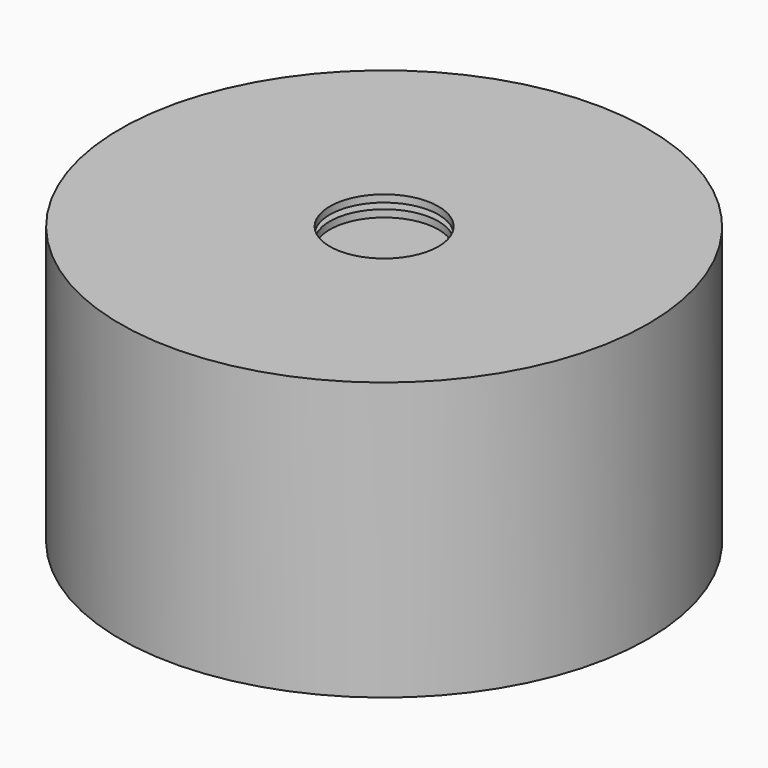
from build123d import *

# Parameters (mm, degrees)
F7_R      = 18
F8_DEPTH  = 8
F5_R      = 36.45
F5_R_2    = 35.45
F9_DEPTH  = 37.3
F11_R     = 36.45
F11_R_2   = 7.5
F12_DEPTH = 1


with BuildPart() as f8:
    # F7 (on offset) → F8 (new body)
    with BuildSketch(Plane.XY.offset(26)):
        Circle(F7_R)
    extrude(amount=F8_DEPTH)


with BuildPart() as f9:
    # F5 (on Top) → F9 (new body)
    with BuildSketch(Plane.XY):
        Circle(F5_R)
        Circle(F5_R_2, mode=Mode.SUBTRACT)
    extrude(amount=F9_DEPTH)

    # F11 (on offset) → F12 (join)
    with BuildSketch(Plane.XY.offset(37.3)):
        Circle(F11_R)
        Circle(F11_R_2, mode=Mode.SUBTRACT)
    extrude(amount=F12_DEPTH)


with BuildPart() as f14:
    # F13 (on Front) → F14 (revolve)
    with BuildSketch(Plane.XZ):
        with BuildLine():
            Line((35.0103266537, 18.0778356203), (35.0103266537, 0))
            Line((35.0103266537, 0), (36.0103266537, 0))
            Line((36.0103266537, 0), (36.0103266537, 18.3892655566))
            ThreePointArc((36.0103266537, 18.3892655566), (35.5685388344, 21.3287518908), (34.2822106719, 24.0085123736))
            ThreePointArc((34.2822106719, 24.0085123736), (27.8716528349, 30.9680026182), (19.7131436366, 35.7605472353))
            ThreePointArc((19.7131436366, 35.7605472353), (17.8773552302, 36.3035819712), (15.9717253793, 36.4868322611))
            Line((15.9717253793, 36.4868322611), (7.5, 36.4868322611))
            Line((7.5, 36.4868322611), (7.5, 35.4868322611))
            Line((7.5, 35.4868322611), (15.7752775923, 35.4868322611))
            ThreePointArc((15.7752775923, 35.4868322611), (17.7254208899, 35.2948361925), (19.6006802182, 34.7262204849))
            ThreePointArc((19.6006802182, 34.7262204849), (27.1793473993, 30.2415196608), (33.2005339142, 23.815474946))
            ThreePointArc((33.2005339142, 23.815474946), (34.5471519275, 21.0859851674), (35.0103266537, 18.0778356203))
        make_face()
    revolve(axis=Axis((0, 0, 18.9236644655), (0, 0, 1)))


solid = Compound([f8.part, f9.part, f14.part])
